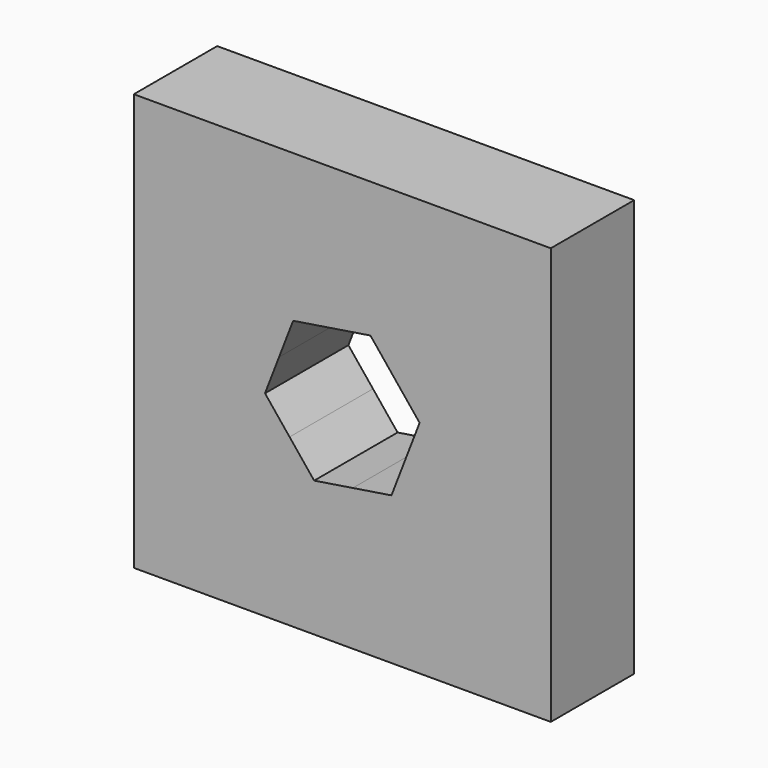
from build123d import *

# Parameters (mm, degrees)
F0_W     = 25.4
F0_H     = 6.35
F1_DEPTH = 25.4
F3_DEPTH = 25.4


with BuildPart() as f1:
    # F0 (on Top) → F1 (new body)
    with BuildSketch(Plane.XY):
        with Locations((9.8100498646, 13.2571424276)):
            Rectangle(F0_W, F0_H)
    extrude(amount=F1_DEPTH)

    # F2 (on face) → F3 (cut)
    with BuildSketch(Plane.XZ.offset(-10.0821424276)):
        with BuildLine():
            ThreePointArc((13.6614853659, 11.2158501323), (13.8679468743, 11.9451966419), (13.9375498646, 12.7))
            ThreePointArc((13.9375498646, 12.7), (13.7016934213, 14.0752696747), (13.0210790334, 15.2933661383))
            ThreePointArc((13.0210790334, 15.2933661383), (11.2941996222, 16.5514355437), (9.1696434798, 16.7775158997))
            ThreePointArc((9.1696434798, 16.7775158997), (7.2166837165, 15.9110291608), (5.9586143185, 14.1841497511))
            ThreePointArc((5.9586143185, 14.1841497511), (5.7325339584, 12.0595936572), (6.5990206497, 10.1066339189))
            ThreePointArc((6.5990206497, 10.1066339189), (8.3259000728, 8.8485644695), (10.4504562495, 8.6224841003))
            ThreePointArc((10.4504562495, 8.6224841003), (12.4034159642, 9.4889707999), (13.6614853659, 11.2158501323))
        make_face()
        with BuildLine():
            ThreePointArc((13.0210790334, 15.2933661383), (13.7016934213, 14.0752696747), (13.9375498646, 12.7))
            ThreePointArc((13.9375498646, 12.7), (13.8679468743, 11.9451966419), (13.6614853659, 11.2158501323))
            Line((13.6614853659, 11.2158501323), (14.5183596735, 13.4394775702))
            Line((14.5183596735, 13.4394775702), (13.0210790334, 15.2933661383))
        make_face()
        with BuildLine():
            ThreePointArc((9.1696434798, 16.7775158997), (11.2941996222, 16.5514355437), (13.0210790334, 15.2933661383))
            Line((13.0210790334, 15.2933661383), (11.5237984078, 17.1472546885))
            Line((11.5237984078, 17.1472546885), (9.1696434798, 16.7775158997))
        make_face()
        with BuildLine():
            Line((12.8046111304, 8.9922228817), (13.6614853659, 11.2158501323))
            ThreePointArc((13.6614853659, 11.2158501323), (12.4034159642, 9.4889707999), (10.4504562495, 8.6224841003))
            Line((10.4504562495, 8.6224841003), (12.8046111304, 8.9922228817))
        make_face()
        with BuildLine():
            ThreePointArc((5.9586143185, 14.1841497511), (7.2166837165, 15.9110291608), (9.1696434798, 16.7775158997))
            Line((9.1696434798, 16.7775158997), (6.8154885989, 16.4077771183))
            Line((6.8154885989, 16.4077771183), (5.9586143185, 14.1841497511))
        make_face()
        with BuildLine():
            Line((8.0963013215, 8.2527453115), (10.4504562495, 8.6224841003))
            ThreePointArc((10.4504562495, 8.6224841003), (8.3259000728, 8.8485644695), (6.5990206497, 10.1066339189))
            Line((6.5990206497, 10.1066339189), (8.0963013215, 8.2527453115))
        make_face()
        with BuildLine():
            ThreePointArc((6.5990206497, 10.1066339189), (5.7325339584, 12.0595936572), (5.9586143185, 14.1841497511))
            Line((5.9586143185, 14.1841497511), (5.1017400558, 11.9605224298))
            Line((5.1017400558, 11.9605224298), (6.5990206497, 10.1066339189))
        make_face()
    extrude(amount=-F3_DEPTH, mode=Mode.SUBTRACT)


solid = f1.part
